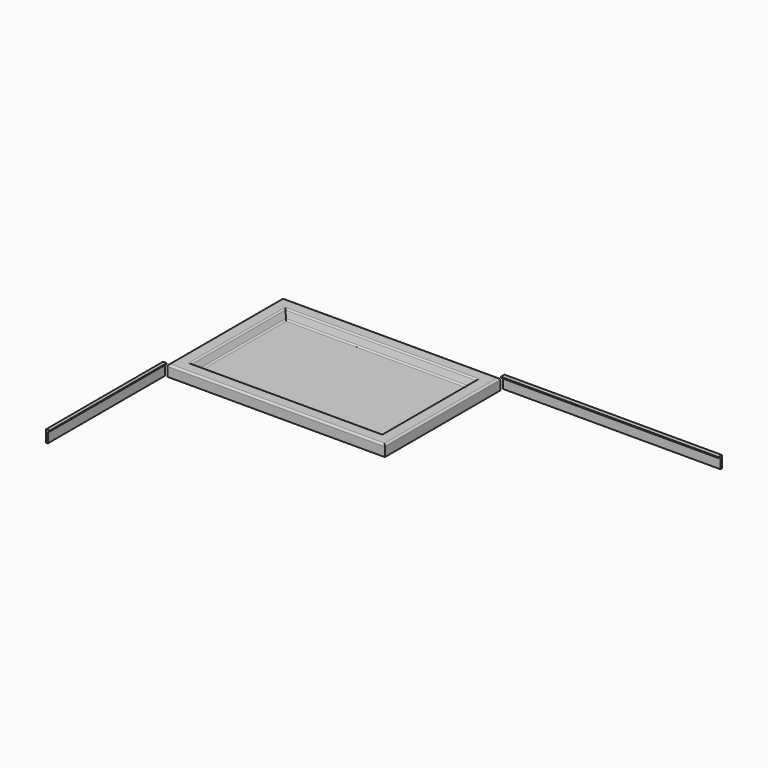
from build123d import *

# Parameters (mm, degrees)
F0_W     = 1190
F0_H     = 790
F1_DEPTH = 60
F2_W     = 1050
F2_H     = 650
F3_DEPTH = 45
F3_TAPER = 20
F4_R     = 10
F5_R     = 10
F7_DEPTH = 800
F9_DEPTH = 1190


with BuildPart() as f1:
    # F0 (on Top) → F1 (new body)
    with BuildSketch(Plane.XY):
        with Locations((595, 395)):
            Rectangle(F0_W, F0_H)
    extrude(amount=F1_DEPTH)

    # F2 (on face) → F3 (cut)
    with BuildSketch(Plane.XY.offset(60)):
        with Locations((595, 395)):
            Rectangle(F2_W, F2_H)
    extrude(amount=-F3_DEPTH, taper=F3_TAPER, mode=Mode.SUBTRACT)

    # F4
    f4_edges = [f1.edges().sort_by_distance(p)[0] for p in [
        (0, 395, 60),
        (595, 790, 60),
        (1190, 395, 60),
        (595, 0, 60),
        (70, 395, 60),
        (595, 720, 60),
        (1120, 395, 60),
        (595, 70, 60),
    ]]
    fillet(f4_edges, radius=F4_R)

    # F5
    f5_edges = [f1.edges().sort_by_distance(p)[0] for p in [
        (86.378661, 395, 15),
        (595, 703.621339, 15),
        (1103.621339, 395, 15),
        (595, 86.378661, 15),
    ]]
    fillet(f5_edges, radius=F5_R)


with BuildPart() as f7:
    # F6 (on Front) → F7 (new body)
    with BuildSketch(Plane.XZ):
        with BuildLine():
            Line((-23.7499997749, 65), (-23.7499997749, 0))
            Line((-23.7499997749, 0), (-13.7499997749, 0))
            Line((-13.7499997749, 0), (-13.7499997749, 50))
            ThreePointArc((-13.7499997749, 50), (-10.8210675867, 57.0710678119), (-3.7499997749, 60))
            Line((-3.7499997749, 60), (-3.7499997749, 65))
            Line((-3.7499997749, 65), (-13.7499997749, 65))
            Line((-13.7499997749, 65), (-23.7499997749, 65))
        make_face()
    extrude(amount=F7_DEPTH)


with BuildPart() as f9:
    # F8 (on face) → F9 (new body)
    with BuildSketch(Plane.YZ.offset(1190)):
        with BuildLine():
            Line((808.1638216972, 50), (808.1638216972, 0))
            Line((808.1638216972, 0), (818.1638216972, 0))
            Line((818.1638216972, 0), (818.1638216972, 50))
            Line((818.1638216972, 50), (818.1638216972, 65))
            Line((818.1638216972, 65), (793.1638216972, 65))
            Line((793.1638216972, 65), (793.1638216972, 60))
            Line((793.1638216972, 60), (798.1638216972, 60))
            ThreePointArc((798.1638216972, 60), (805.2348895091, 57.0710678119), (808.1638216972, 50))
        make_face()
    extrude(amount=F9_DEPTH)


solid = Compound([f1.part, f7.part, f9.part])
